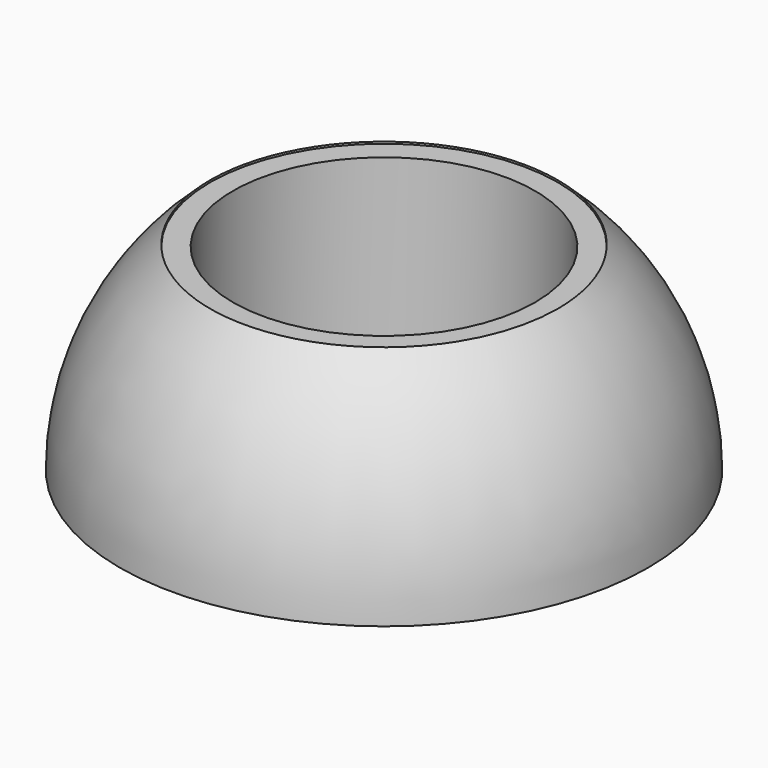
from build123d import *

# Parameters (mm, degrees)
CYLINDER_R        = 7.6
CYLINDER_DEPTH    = 10
CYLINDER002_R     = 6.6
CYLINDER002_DEPTH = 10
CYLINDER001_R     = 7.6
CYLINDER001_DEPTH = 10


with BuildPart() as esfera001:
    # Sphere001 → Sphere001 (revolve)
    with BuildSketch(Plane.XZ):
        with BuildLine():
            ThreePointArc((0, -10.54), (10.54, 0), (0, 10.54))
            Line((0, 10.54), (0, -10.54))
        make_face()
    revolve(axis=Axis((0, 0, 0), (0, 0, 1)))


with BuildPart() as obj1:
    # Cylinder → Cylinder (new body)
    with BuildSketch(Plane.XY.offset(2)):
        Circle(CYLINDER_R)
    extrude(amount=CYLINDER_DEPTH)


with BuildPart() as cut002:
    # Sphere → Sphere (revolve)
    with BuildSketch(Plane.XZ):
        with BuildLine():
            ThreePointArc((11.54, 0), (8.160012, 8.160012), (0, 11.54))
            Line((0, 11.54), (0, 0))
            Line((0, 0), (11.54, 0))
        make_face()
    revolve(axis=Axis((0, 0, 0), (0, 0, 1)))

    # Cut001: cut obj1
    add(obj1.part, mode=Mode.SUBTRACT)

    # Cut002: cut Esfera001
    add(esfera001.part, mode=Mode.SUBTRACT)


with BuildPart() as obj2:
    # Cylinder002 → Cylinder002 (new body)
    with BuildSketch(Plane.XY.offset(2)):
        Circle(CYLINDER002_R)
    extrude(amount=CYLINDER002_DEPTH)


with BuildPart() as fusion:
    # Cylinder001 → Cylinder001 (new body)
    with BuildSketch(Plane.XY.offset(2)):
        Circle(CYLINDER001_R)
    extrude(amount=CYLINDER001_DEPTH)

    # Cut: cut obj2
    add(obj2.part, mode=Mode.SUBTRACT)


with BuildPart() as fusion_1:
    # Cut placement: moved
    add(fusion.part.moved(Location((0, 0, -3.4))))

    # Fusion: union Cut002
    add(cut002.part)


solid = fusion_1.part
